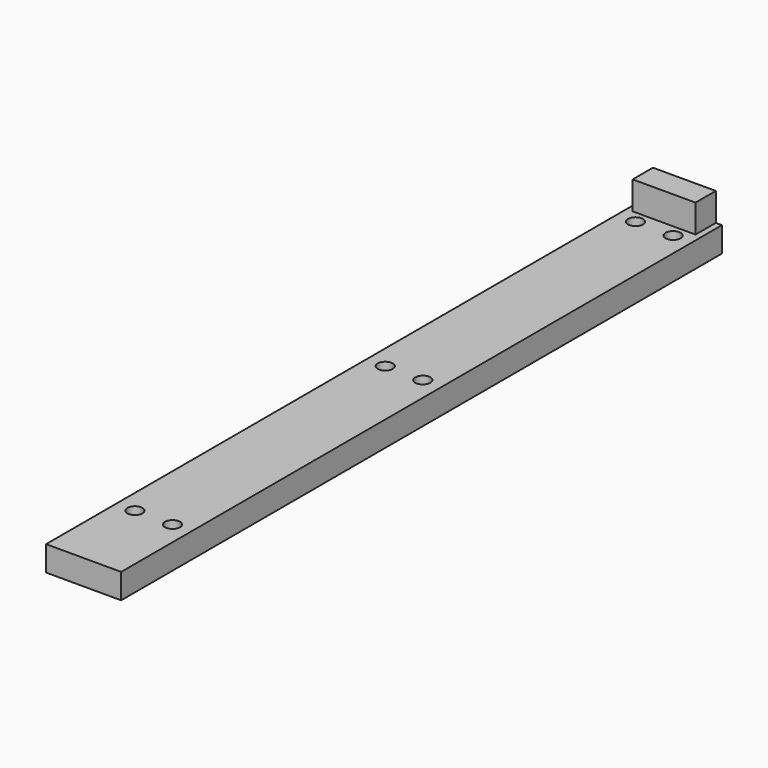
from build123d import *

# Parameters (mm, degrees)
SKETCH_W      = 12
SKETCH_H      = 120
SKETCH_W_2    = 6.05
SKETCH_H_2    = 3.05
PAD_DEPTH     = 4
SKETCH001_R   = 1.2
HOLE_DEPTH    = 25
SKETCH002_W   = 10.05
SKETCH002_H   = 4.05
SKETCH002_W_2 = 6.05
SKETCH002_H_2 = 3.05
PAD001_DEPTH  = 2.5
SKETCH003_W   = 10.05
SKETCH003_H   = 4.05
PAD002_DEPTH  = 2
SKETCH004_R   = 2.5
POCKET_DEPTH  = 0.5


with BuildPart() as part:
    # Sketch → Pad (new body)
    with BuildSketch(Plane.XY):
        Rectangle(SKETCH_W, SKETCH_H)
        with Locations((0, 57.975)):
            Rectangle(SKETCH_W_2, SKETCH_H_2, mode=Mode.SUBTRACT)
    extrude(amount=PAD_DEPTH)

    # Sketch001 (on Face10 of Pad) → Hole (cut)
    with BuildSketch(Plane.XY.offset(4)):
        with Locations((3, 54)):
            Circle(SKETCH001_R)
        with Locations((3, 4)):
            Circle(SKETCH001_R)
        with Locations((3, -46)):
            Circle(SKETCH001_R)
        with Locations((-3, 54)):
            Circle(SKETCH001_R)
        with Locations((-3, 4)):
            Circle(SKETCH001_R)
        with Locations((-3, -46)):
            Circle(SKETCH001_R)
    extrude(amount=-HOLE_DEPTH, mode=Mode.SUBTRACT)

    # Sketch002 (on Face5 of Hole) → Pad001 (join)
    with BuildSketch(Plane.XY.offset(4)):
        with Locations((0, 57.975)):
            Rectangle(SKETCH002_W, SKETCH002_H)
        with Locations((0, 57.975)):
            Rectangle(SKETCH002_W_2, SKETCH002_H_2, mode=Mode.SUBTRACT)
    extrude(amount=PAD001_DEPTH)

    # Sketch003 (on Face15 of Pad001) → Pad002 (join)
    with BuildSketch(Plane.XY.offset(6.5)):
        with Locations((0, 57.975)):
            Rectangle(SKETCH003_W, SKETCH003_H)
    extrude(amount=PAD002_DEPTH)

    # Sketch004 (on Face17 of Pad002) → Pocket (cut)
    with BuildSketch(Plane(origin=(0, 60, 0), x_dir=(-1, 0, 0), z_dir=(0, 1, 0))):
        with Locations((0, 3.25)):
            Circle(SKETCH004_R)
    extrude(amount=-POCKET_DEPTH, mode=Mode.SUBTRACT)


solid = part.part
